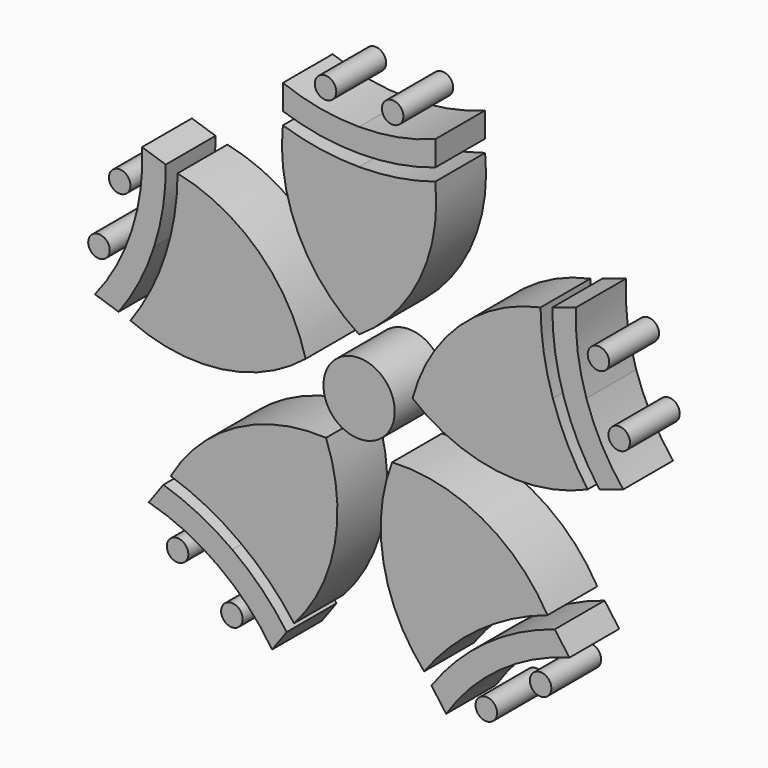
from build123d import *

# Parameters (mm, degrees)
F0_R     = 5.724774
F0_R_2   = 1.725023
F1_DEPTH = 10


with BuildPart() as f1:
    # F0 (on Front) → F1 (new body)
    with BuildSketch(Plane.XZ):
        with BuildLine():
            ThreePointArc((-31.114318, 10.109655), (-33.476029, 4.366319), (-36.701992, -0.939973))
            ThreePointArc((-36.701992, -0.939973), (-22.11578, -3.060098), (-8.587001, 2.790086))
            ThreePointArc((-8.587001, 2.790086), (-16.093362, 15.475), (-29.140033, 22.333344))
            ThreePointArc((-29.140033, 22.333344), (-29.649134, 16.14429), (-31.114318, 10.109655))
        make_face()
        with BuildLine():
            ThreePointArc((-32.921013, 10.696685), (-31.477347, 16.746724), (-31.042146, 22.951378))
            Line((-31.042146, 22.951378), (-34.846372, 24.187446))
            ThreePointArc((-34.846372, 24.187446), (-35.108153, 17.947796), (-36.501702, 11.860122))
            ThreePointArc((-36.501702, 11.860122), (-38.952543, 6.115982), (-42.408331, 0.914129))
            Line((-42.408331, 0.914129), (-38.604105, -0.321939))
            ThreePointArc((-38.604105, -0.321939), (-35.309186, 4.953536), (-32.921013, 10.696685))
        make_face()
        with BuildLine():
            ThreePointArc((0, 32.71553), (-6.192045, 33.186862), (-12.235507, 34.615201))
            ThreePointArc((-12.235507, 34.615201), (-9.744478, 20.087735), (0, 9.028907))
            ThreePointArc((0, 9.028907), (9.744478, 20.087735), (12.235507, 34.615201))
            ThreePointArc((12.235507, 34.615201), (6.192045, 33.186862), (0, 32.71553))
        make_face()
        with BuildLine():
            Line((-12.235507, 40.615201), (-12.235507, 36.615201))
            ThreePointArc((-12.235507, 36.615201), (-6.200046, 35.111758), (0, 34.615201))
            ThreePointArc((0, 34.615201), (6.200046, 35.111758), (12.235507, 36.615201))
            Line((12.235507, 36.615201), (12.235507, 40.615201))
            ThreePointArc((12.235507, 40.615201), (6.220353, 38.936012), (0, 38.380161))
            ThreePointArc((0, 38.380161), (-6.220353, 38.936012), (-12.235507, 40.615201))
        make_face()
        with BuildLine():
            ThreePointArc((31.114318, 10.109655), (29.649134, 16.14429), (29.140033, 22.333344))
            ThreePointArc((29.140033, 22.333344), (16.093362, 15.475), (8.587001, 2.790086))
            ThreePointArc((8.587001, 2.790086), (22.11578, -3.060098), (36.701992, -0.939973))
            ThreePointArc((36.701992, -0.939973), (33.476029, 4.366319), (31.114318, 10.109655))
        make_face()
        with BuildLine():
            ThreePointArc((32.921013, 10.696685), (35.309186, 4.953536), (38.604105, -0.321939))
            Line((38.604105, -0.321939), (42.408331, 0.914129))
            ThreePointArc((42.408331, 0.914129), (38.952543, 6.115982), (36.501702, 11.860122))
            ThreePointArc((36.501702, 11.860122), (35.108153, 17.947796), (34.846372, 24.187446))
            Line((34.846372, 24.187446), (31.042146, 22.951378))
            ThreePointArc((31.042146, 22.951378), (31.477347, 16.746724), (32.921013, 10.696685))
        make_face()
        with BuildLine():
            ThreePointArc((19.229706, -26.467419), (24.516218, -23.209143), (30.245038, -20.812435))
            ThreePointArc((30.245038, -20.812435), (19.690722, -10.523658), (5.307059, -7.304539))
            ThreePointArc((5.307059, -7.304539), (3.923826, -21.978979), (10.447572, -35.196137))
            ThreePointArc((10.447572, -35.196137), (14.497278, -30.488329), (19.229706, -26.467419))
        make_face()
        with BuildLine():
            ThreePointArc((20.346305, -28.004286), (15.622231, -32.050305), (11.623142, -36.814171))
            Line((11.623142, -36.814171), (13.974283, -40.050239))
            ThreePointArc((13.974283, -40.050239), (17.853643, -35.156127), (22.559293, -31.050203))
            ThreePointArc((22.559293, -31.050203), (27.918385, -27.843664), (33.77175, -25.666537))
            Line((33.77175, -25.666537), (31.420608, -22.430469))
            ThreePointArc((31.420608, -22.430469), (25.654116, -24.761714), (20.346305, -28.004286))
        make_face()
        with BuildLine():
            ThreePointArc((-19.229706, -26.467419), (-14.497278, -30.488329), (-10.447572, -35.196137))
            ThreePointArc((-10.447572, -35.196137), (-3.923826, -21.978979), (-5.307059, -7.304539))
            ThreePointArc((-5.307059, -7.304539), (-19.690722, -10.523658), (-30.245038, -20.812435))
            ThreePointArc((-30.245038, -20.812435), (-24.516218, -23.209143), (-19.229706, -26.467419))
        make_face()
        with BuildLine():
            ThreePointArc((-20.346305, -28.004286), (-25.654116, -24.761714), (-31.420608, -22.430469))
            Line((-31.420608, -22.430469), (-33.77175, -25.666537))
            ThreePointArc((-33.77175, -25.666537), (-27.918385, -27.843664), (-22.559293, -31.050203))
            ThreePointArc((-22.559293, -31.050203), (-17.853643, -35.156127), (-13.974283, -40.050239))
            Line((-13.974283, -40.050239), (-11.623142, -36.814171))
            ThreePointArc((-11.623142, -36.814171), (-15.622231, -32.050305), (-20.346305, -28.004286))
        make_face()
        Circle(F0_R)
        with Locations((-5.386472, 42.165443)):
            Circle(F0_R_2)
        with Locations((5.386472, 42.165443)):
            Circle(F0_R_2)
        with Locations((38.437208, 18.152678)):
            Circle(F0_R_2)
        with Locations((41.766231, 7.906999)):
            Circle(F0_R_2)
        with Locations((29.141973, -30.946471)):
            Circle(F0_R_2)
        with Locations((20.426478, -37.278649)):
            Circle(F0_R_2)
        with Locations((-20.426478, -37.278649)):
            Circle(F0_R_2)
        with Locations((-29.141973, -30.946471)):
            Circle(F0_R_2)
        with Locations((-41.766231, 7.906999)):
            Circle(F0_R_2)
        with Locations((-38.437208, 18.152678)):
            Circle(F0_R_2)
    extrude(amount=F1_DEPTH)


solid = f1.part
